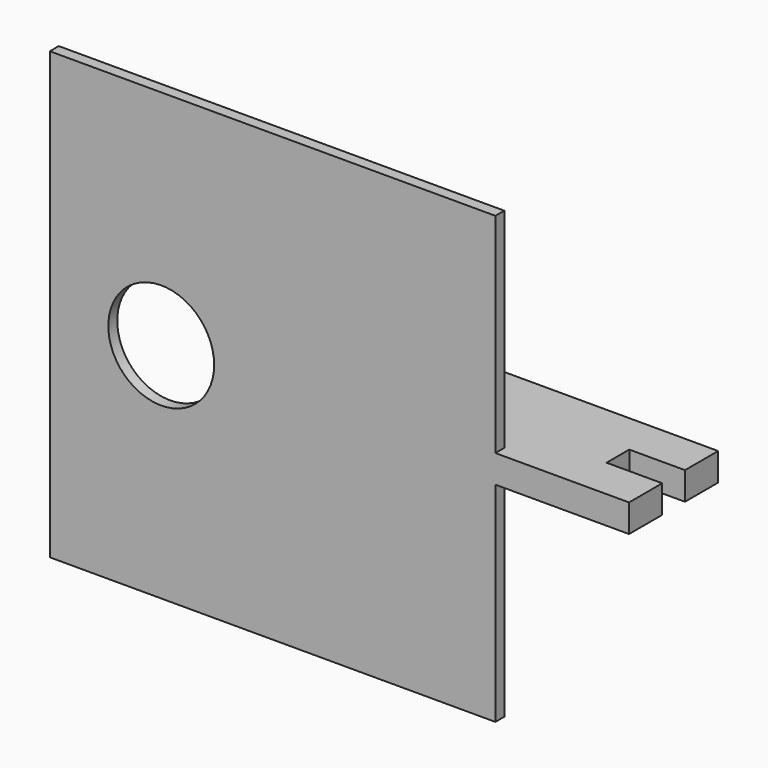
from build123d import *

# Parameters (mm, degrees)
SKETCH_W     = 80
SKETCH_H     = 80
SKETCH_R     = 9.5
PAD_DEPTH    = 2
PAD001_DEPTH = 2.5


with BuildPart() as part:
    # Sketch → Pad (new body)
    with BuildSketch(Plane.XZ):
        with Locations((-40, 0)):
            Rectangle(SKETCH_W, SKETCH_H)
        with Locations((-60, 0)):
            Circle(SKETCH_R, mode=Mode.SUBTRACT)
    extrude(amount=-PAD_DEPTH)

    # Sketch001 → Pad001 (join, symmetric)
    with BuildSketch(Plane.XY):
        Polygon((-26, 0), (-16, 20), (24, 20), (24, 12.55), (14, 12.55), (14, 7.45), (24, 7.45), (24, 0), align=None)
    extrude(amount=PAD001_DEPTH, both=True)


solid = part.part
